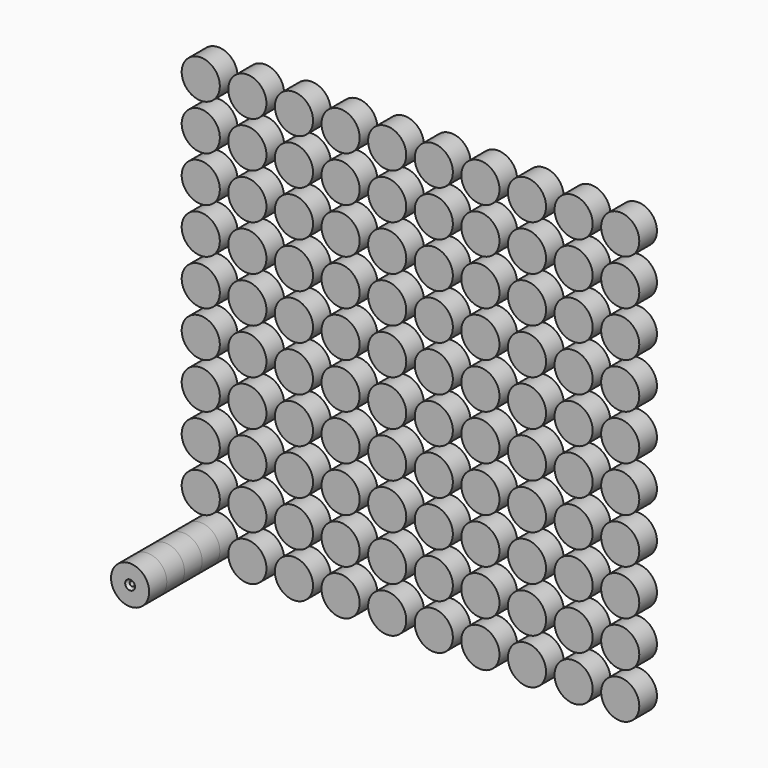
from build123d import *

# Parameters (mm, degrees)
F0_R           = 21.9296531776
F1_DEPTH       = 25.4
F2_DEPTH       = 25.4
F3_DEPTH       = 25.4
F4_DEPTH       = 25.4
F5_DEPTH       = 25.4
F7_D           = 5.5
F7_DEPTH       = 15.8588
F7_CSINK_D     = 11.2
F7_CSINK_ANGLE = 90
F7_TIP         = 1.6523667023


with BuildPart() as f1:
    # F0 (on Front) → F1 (new body)
    with BuildSketch(Plane.XZ):
        with Locations((-112.803734839, -47.4487096071)):
            Circle(F0_R)
        with Locations((-112.803734839, 4.8752903929)):
            Circle(F0_R)
        with Locations((-112.803734839, 57.1992903929)):
            Circle(F0_R)
        with Locations((-112.803734839, 109.5232903929)):
            Circle(F0_R)
        with Locations((-112.803734839, 161.8472903929)):
            Circle(F0_R)
        with Locations((-112.803734839, 214.1712903929)):
            Circle(F0_R)
        with Locations((-112.803734839, 266.4952903929)):
            Circle(F0_R)
        with Locations((-112.803734839, 318.8192903929)):
            Circle(F0_R)
        with Locations((-112.803734839, 371.1432903929)):
            Circle(F0_R)
        with Locations((-112.803734839, 423.4672903929)):
            Circle(F0_R)
        with Locations((-59.209734839, -47.4487096071)):
            Circle(F0_R)
        with Locations((-59.209734839, 4.8752903929)):
            Circle(F0_R)
        with Locations((-59.209734839, 57.1992903929)):
            Circle(F0_R)
        with Locations((-59.209734839, 109.5232903929)):
            Circle(F0_R)
        with Locations((-59.209734839, 161.8472903929)):
            Circle(F0_R)
        with Locations((-59.209734839, 214.1712903929)):
            Circle(F0_R)
        with Locations((-59.209734839, 266.4952903929)):
            Circle(F0_R)
        with Locations((-59.209734839, 318.8192903929)):
            Circle(F0_R)
        with Locations((-59.209734839, 371.1432903929)):
            Circle(F0_R)
        with Locations((-59.209734839, 423.4672903929)):
            Circle(F0_R)
        with Locations((-5.615734839, -47.4487096071)):
            Circle(F0_R)
        with Locations((-5.615734839, 4.8752903929)):
            Circle(F0_R)
        with Locations((-5.615734839, 57.1992903929)):
            Circle(F0_R)
        with Locations((-5.615734839, 109.5232903929)):
            Circle(F0_R)
        with Locations((-5.615734839, 161.8472903929)):
            Circle(F0_R)
        with Locations((-5.615734839, 214.1712903929)):
            Circle(F0_R)
        with Locations((-5.615734839, 266.4952903929)):
            Circle(F0_R)
        with Locations((-5.615734839, 318.8192903929)):
            Circle(F0_R)
        with Locations((-5.615734839, 371.1432903929)):
            Circle(F0_R)
        with Locations((-5.615734839, 423.4672903929)):
            Circle(F0_R)
        with Locations((47.978265161, -47.4487096071)):
            Circle(F0_R)
        with Locations((47.978265161, 4.8752903929)):
            Circle(F0_R)
        with Locations((47.978265161, 57.1992903929)):
            Circle(F0_R)
        with Locations((47.978265161, 109.5232903929)):
            Circle(F0_R)
        with Locations((47.978265161, 161.8472903929)):
            Circle(F0_R)
        with Locations((47.978265161, 214.1712903929)):
            Circle(F0_R)
        with Locations((47.978265161, 266.4952903929)):
            Circle(F0_R)
        with Locations((47.978265161, 318.8192903929)):
            Circle(F0_R)
        with Locations((47.978265161, 371.1432903929)):
            Circle(F0_R)
        with Locations((47.978265161, 423.4672903929)):
            Circle(F0_R)
        with Locations((101.572265161, -47.4487096071)):
            Circle(F0_R)
        with Locations((101.572265161, 4.8752903929)):
            Circle(F0_R)
        with Locations((101.572265161, 57.1992903929)):
            Circle(F0_R)
        with Locations((101.572265161, 109.5232903929)):
            Circle(F0_R)
        with Locations((101.572265161, 161.8472903929)):
            Circle(F0_R)
        with Locations((101.572265161, 214.1712903929)):
            Circle(F0_R)
        with Locations((101.572265161, 266.4952903929)):
            Circle(F0_R)
        with Locations((101.572265161, 318.8192903929)):
            Circle(F0_R)
        with Locations((101.572265161, 371.1432903929)):
            Circle(F0_R)
        with Locations((101.572265161, 423.4672903929)):
            Circle(F0_R)
        with Locations((155.166265161, -47.4487096071)):
            Circle(F0_R)
        with Locations((155.166265161, 4.8752903929)):
            Circle(F0_R)
        with Locations((155.166265161, 57.1992903929)):
            Circle(F0_R)
        with Locations((155.166265161, 109.5232903929)):
            Circle(F0_R)
        with Locations((155.166265161, 161.8472903929)):
            Circle(F0_R)
        with Locations((155.166265161, 214.1712903929)):
            Circle(F0_R)
        with Locations((155.166265161, 266.4952903929)):
            Circle(F0_R)
        with Locations((155.166265161, 318.8192903929)):
            Circle(F0_R)
        with Locations((155.166265161, 371.1432903929)):
            Circle(F0_R)
        with Locations((155.166265161, 423.4672903929)):
            Circle(F0_R)
        with Locations((208.760265161, -47.4487096071)):
            Circle(F0_R)
        with Locations((208.760265161, 4.8752903929)):
            Circle(F0_R)
        with Locations((208.760265161, 57.1992903929)):
            Circle(F0_R)
        with Locations((208.760265161, 109.5232903929)):
            Circle(F0_R)
        with Locations((208.760265161, 161.8472903929)):
            Circle(F0_R)
        with Locations((208.760265161, 214.1712903929)):
            Circle(F0_R)
        with Locations((208.760265161, 266.4952903929)):
            Circle(F0_R)
        with Locations((208.760265161, 318.8192903929)):
            Circle(F0_R)
        with Locations((208.760265161, 371.1432903929)):
            Circle(F0_R)
        with Locations((208.760265161, 423.4672903929)):
            Circle(F0_R)
        with Locations((262.354265161, -47.4487096071)):
            Circle(F0_R)
        with Locations((262.354265161, 4.8752903929)):
            Circle(F0_R)
        with Locations((262.354265161, 57.1992903929)):
            Circle(F0_R)
        with Locations((262.354265161, 109.5232903929)):
            Circle(F0_R)
        with Locations((262.354265161, 161.8472903929)):
            Circle(F0_R)
        with Locations((262.354265161, 214.1712903929)):
            Circle(F0_R)
        with Locations((262.354265161, 266.4952903929)):
            Circle(F0_R)
        with Locations((262.354265161, 318.8192903929)):
            Circle(F0_R)
        with Locations((262.354265161, 371.1432903929)):
            Circle(F0_R)
        with Locations((262.354265161, 423.4672903929)):
            Circle(F0_R)
        with Locations((315.948265161, -47.4487096071)):
            Circle(F0_R)
        with Locations((315.948265161, 4.8752903929)):
            Circle(F0_R)
        with Locations((315.948265161, 57.1992903929)):
            Circle(F0_R)
        with Locations((315.948265161, 109.5232903929)):
            Circle(F0_R)
        with Locations((315.948265161, 161.8472903929)):
            Circle(F0_R)
        with Locations((315.948265161, 214.1712903929)):
            Circle(F0_R)
        with Locations((315.948265161, 266.4952903929)):
            Circle(F0_R)
        with Locations((315.948265161, 318.8192903929)):
            Circle(F0_R)
        with Locations((315.948265161, 371.1432903929)):
            Circle(F0_R)
        with Locations((315.948265161, 423.4672903929)):
            Circle(F0_R)
        with Locations((369.542265161, -47.4487096071)):
            Circle(F0_R)
        with Locations((369.542265161, 4.8752903929)):
            Circle(F0_R)
        with Locations((369.542265161, 57.1992903929)):
            Circle(F0_R)
        with Locations((369.542265161, 109.5232903929)):
            Circle(F0_R)
        with Locations((369.542265161, 161.8472903929)):
            Circle(F0_R)
        with Locations((369.542265161, 214.1712903929)):
            Circle(F0_R)
        with Locations((369.542265161, 266.4952903929)):
            Circle(F0_R)
        with Locations((369.542265161, 318.8192903929)):
            Circle(F0_R)
        with Locations((369.542265161, 371.1432903929)):
            Circle(F0_R)
        with Locations((369.542265161, 423.4672903929)):
            Circle(F0_R)
    extrude(amount=F1_DEPTH)


with BuildPart() as f2:
    # F2 (new): a face of the model
    f2_faces = [f1.part.faces().sort_by_distance(p)[0] for p in [
        (-112.803734839, -25.4, -47.4487096071),
    ]]
    extrude(f2_faces, amount=F2_DEPTH)


with BuildPart() as f3:
    # F3 (new): a face of the model
    f3_faces = [f2.part.faces().sort_by_distance(p)[0] for p in [
        (-112.803734839, -50.8, -47.4487096071),
    ]]
    extrude(f3_faces, amount=F3_DEPTH)


with BuildPart() as f4:
    # F4 (new): a face of the model
    f4_faces = [f3.part.faces().sort_by_distance(p)[0] for p in [
        (-112.803734839, -76.2, -47.4487096071),
    ]]
    extrude(f4_faces, amount=F4_DEPTH)


with BuildPart() as f5:
    # F5 (new): a face of the model
    f5_faces = [f4.part.faces().sort_by_distance(p)[0] for p in [
        (-112.803734839, -101.6, -47.4487096071),
    ]]
    extrude(f5_faces, amount=F5_DEPTH)

    # F7
    with Locations(Plane.XZ.offset(127)):
        with Locations((-112.803734839, -47.4487096071)):
            CounterSinkHole(F7_D / 2, F7_CSINK_D / 2, depth=F7_DEPTH, counter_sink_angle=F7_CSINK_ANGLE)
            with Locations((0, 0, -(F7_DEPTH + F7_TIP / 2))):  # 118° drill point
                Cone(0, F7_D / 2, F7_TIP, mode=Mode.SUBTRACT)


solid = Compound([f1.part, f2.part, f3.part, f4.part, f5.part])
